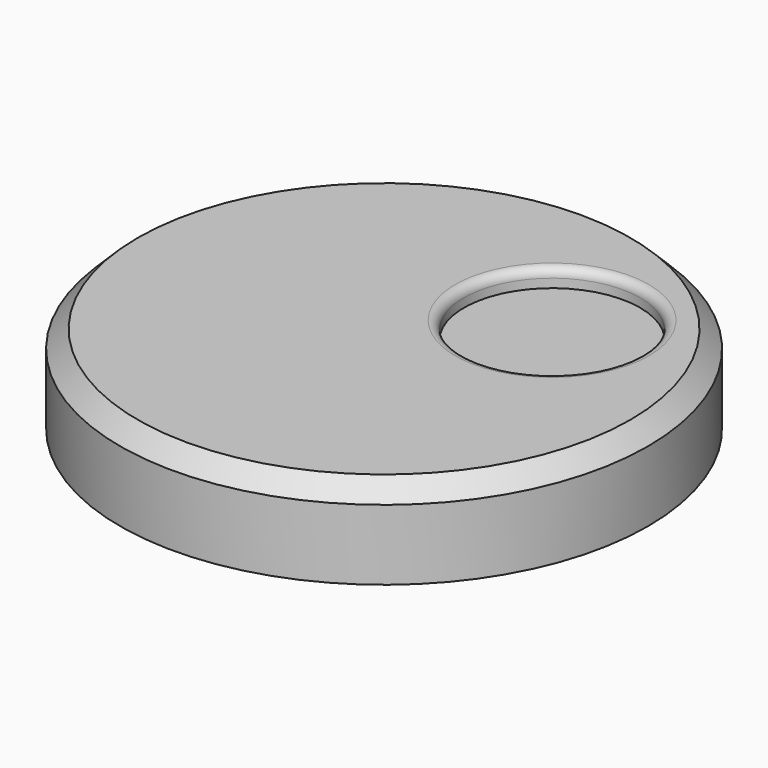
from build123d import *

# Parameters (mm, degrees)
SKETCH004_R     = 4.5
PAD003_DEPTH    = 3
SKETCH005_R     = 15
PAD004_DEPTH    = 2
SKETCH006_R     = 15
SKETCH006_R_2   = 13
PAD005_DEPTH    = 3
SKETCH007_R     = 5
POCKET001_DEPTH = 1
FILLET001_R     = 0.5
CHAMFER001_SIZE = 1


with BuildPart() as part:
    # Sketch004 → Pad003 (new body)
    with BuildSketch(Plane.XY):
        Circle(SKETCH004_R)
        with BuildLine():
            ThreePointArc((-2.078461, 2.3), (0, -3.1), (2.078461, 2.3))
            Line((-2.078461, 2.3), (2.078461, 2.3))
        make_face(mode=Mode.SUBTRACT)
    extrude(amount=PAD003_DEPTH)

    # Sketch005 (on Face5 of Pad003) → Pad004 (join)
    with BuildSketch(Plane.XY.offset(3)):
        Circle(SKETCH005_R)
    extrude(amount=PAD004_DEPTH)

    # Sketch006 (on Face2 of Pad004) → Pad005 (join)
    with BuildSketch(Plane(origin=(0, 0, 3), x_dir=(1, 0, 0), z_dir=(0, 0, -1))):
        Circle(SKETCH006_R)
        Circle(SKETCH006_R_2, mode=Mode.SUBTRACT)
    extrude(amount=PAD005_DEPTH)

    # Sketch007 (on Face3 of Pad005) → Pocket001 (cut)
    with BuildSketch(Plane.XY.offset(5)):
        with Locations((5.303301, 5.303301)):
            Circle(SKETCH007_R)
    extrude(amount=-POCKET001_DEPTH, mode=Mode.SUBTRACT)

    # Fillet001
    fillet001_edges = [part.edges().sort_by_distance(p)[0] for p in [
        (0.303301, 5.303301, 5),
    ]]
    fillet(fillet001_edges, radius=FILLET001_R)

    # Chamfer001
    chamfer001_edges = [part.edges().sort_by_distance(p)[0] for p in [
        (-15, 0, 5),
    ]]
    chamfer(chamfer001_edges, length=CHAMFER001_SIZE)


with BuildPart() as part_1:
    # Body001 placement: moved
    add(part.part.moved(Location((28.4, 0, 0))))


solid = part_1.part
